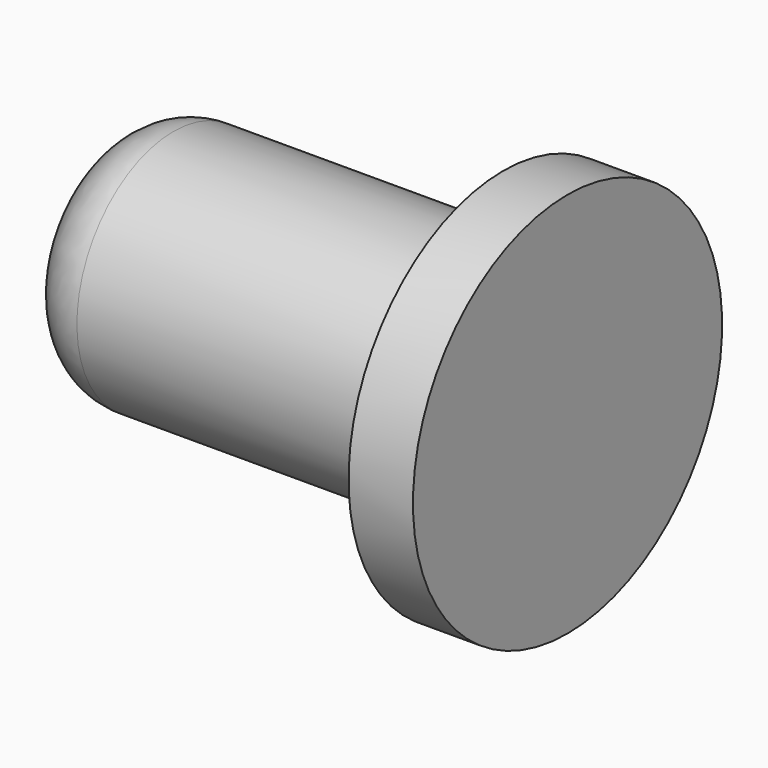
from build123d import *

# Parameters (mm, degrees)
F2_R     = 1
F3_R     = 2.25
F4_DEPTH = 7


with BuildPart() as f1:
    # F0 (on Front) → F1 (revolve)
    with BuildSketch(Plane.XZ):
        with BuildLine():
            Line((-14.220479, 0), (0, 0))
            Line((0, 0), (0, 6))
            Line((0, 6), (-2, 6))
            Line((-2, 6), (-2, 3.75))
            Line((-2, 3.75), (-11, 3.75))
            Line((-11, 3.75), (-12.236166, 3.75))
            ThreePointArc((-12.236166, 3.75), (-13.559041, 3.25), (-14.220479, 2))
            Line((-14.220479, 2), (-14.220479, 0))
        make_face()
    revolve(axis=Axis((-7.11024, 0, 0), (1, 0, 0)))

    # F2
    f2_edges = [f1.edges().sort_by_distance(p)[0] for p in [
        (-2, 0, -3.75),
    ]]
    fillet(f2_edges, radius=F2_R)

    # F3 (on face) → F4 (cut)
    with BuildSketch(Plane(origin=(-14.220479, 0, 0), x_dir=(0, -1, 0), z_dir=(-1, 0, 0))):
        Circle(F3_R)
    extrude(amount=-F4_DEPTH, mode=Mode.SUBTRACT)


solid = f1.part
